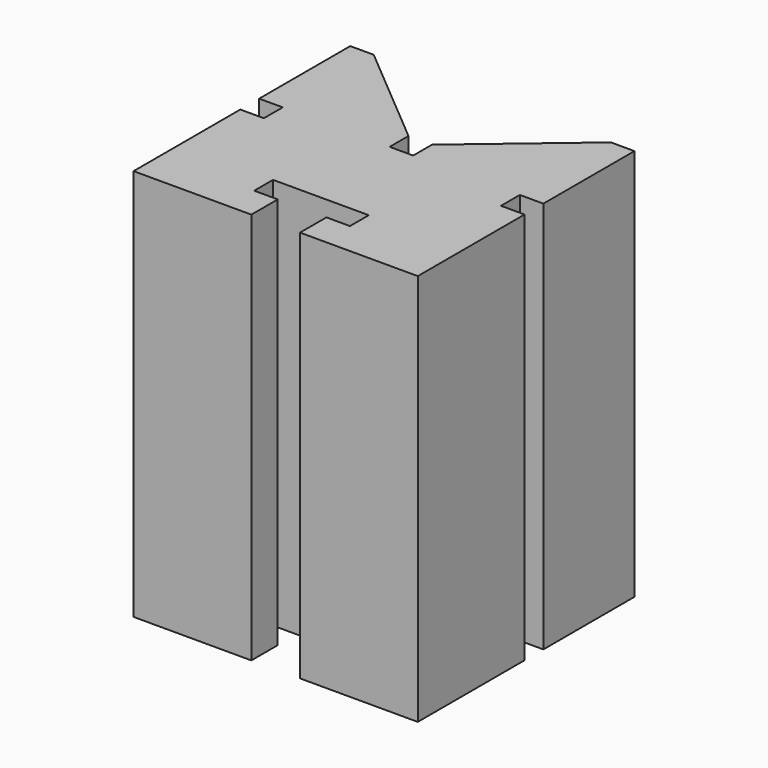
from build123d import *

# Parameters (mm, degrees)
F1_DEPTH = 50
F3_DEPTH = 50
F4_W     = 3.671517
F4_H     = 3
F4_W_2   = 6.401138
F5_DEPTH = 50


with BuildPart() as f1:
    # F0 (on Top) → F1 (new body)
    with BuildSketch(Plane.XY):
        Polygon((18.104074, -17.248757), (18.104074, 17.248757), (15.104074, 17.248757), (1.519567, 5.748757), (1.519567, 2.748757), (-1.480433, 2.748757), (-1.480433, 5.748757), (-15.104074, 17.248757), (-18.104074, 17.248757), (-18.104074, -17.248757), align=None)
    extrude(amount=F1_DEPTH)

    # F2 (on Top) → F3 (cut)
    with BuildSketch(Plane.XY):
        Polygon((6.1, -10.048757), (-6.1, -10.048757), (-6.1, -13.048757), (-3.1, -13.048757), (-3.1, -21.213451), (3.1, -21.213451), (3.1, -13.048757), (6.1, -13.048757), align=None)
    extrude(amount=F3_DEPTH, mode=Mode.SUBTRACT)

    # F4 (on Top) → F5 (cut)
    with BuildSketch(Plane.XY):
        with Locations((-16.939832, 1.248757)):
            Rectangle(F4_W, F4_H)
        with Locations((18.304643, 1.248757)):
            Rectangle(F4_W_2, F4_H)
    extrude(amount=F5_DEPTH, mode=Mode.SUBTRACT)


solid = f1.part
